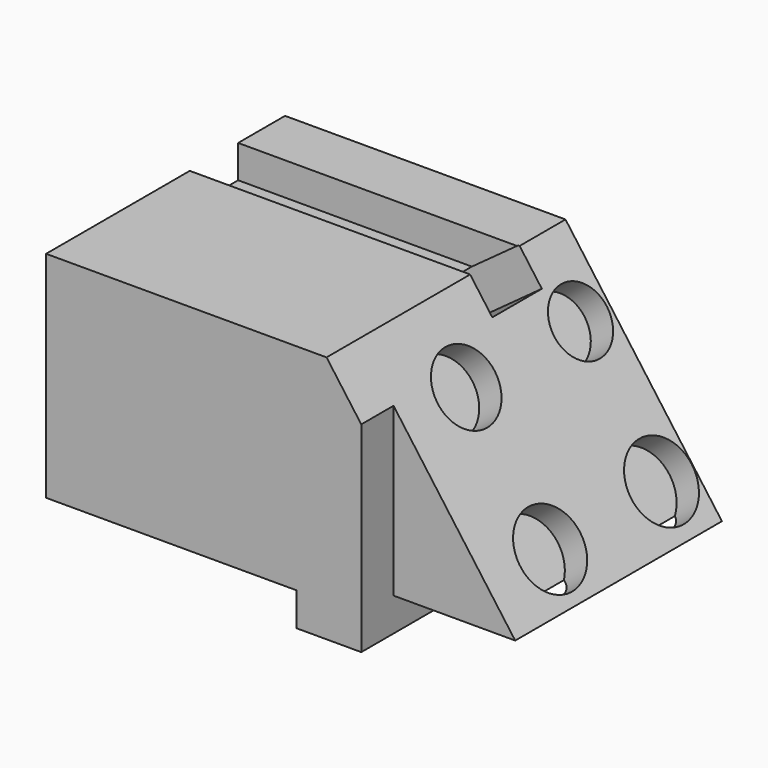
from build123d import *

# Parameters (mm, degrees)
F1_DEPTH  = 101.6
F2_W      = 95.392908901
F2_H      = 20.5622557551
F3_DEPTH  = 11.176
F5_W      = 21.0552625358
F5_H      = 13.1527595222
F6_DEPTH  = 25.4
F7_R      = 12.0900311227
F7_R_2    = 11.1649780349
F7_R_3    = 12.6885276411
F7_R_4    = 12.8258511979
F8_DEPTH  = 9.398
F10_DEPTH = 13.716


with BuildPart() as f1:
    # F0 (on Front) → F1 (new body)
    with BuildSketch(Plane.XZ):
        Polygon((32.0974774659, 39.2414145172), (-63.2954314351, 39.2414145172), (-63.2954314351, -33.8319987059), (21.8787807971, -33.8319987059), (21.8787807971, -45.1878346503), (43.9058281481, -45.1878346503), (43.9058281481, -33.8319987059), (85.2973610163, -33.8319987059), align=None)
    extrude(amount=F1_DEPTH)

    # F2 (on face) → F3 (cut)
    with BuildSketch(Plane.XY.offset(39.2414145172)):
        with Locations((-15.5989769846, -30.2323354408)):
            Rectangle(F2_W, F2_H)
    extrude(amount=-F3_DEPTH, mode=Mode.SUBTRACT)

    # F5 (on face) → F6 (cut)
    with BuildSketch(Plane(origin=(39.6504866209, 0, 28.8668775402), x_dir=(0, 1, 0), z_dir=(0.8084434725, 0, 0.5885738287))):
        with Locations((-30.0295893103, 6.5763797611)):
            Rectangle(F5_W, F5_H)
    extrude(amount=-F6_DEPTH, mode=Mode.SUBTRACT)

    # F7 (on face) → F8 (cut)
    with BuildSketch(Plane(origin=(39.6504866209, 0, 28.8668775402), x_dir=(0, 1, 0), z_dir=(0.8084434725, 0, 0.5885738287))):
        with Locations((-60.9646290541, -12.6676354557)):
            Circle(F7_R)
        with Locations((-12.3755605891, -12.6676354557)):
            Circle(F7_R_2)
        with Locations((-60.9646290541, -61.1499175429)):
            Circle(F7_R_3)
        with Locations((-13.0234146491, -60.3485517204)):
            Circle(F7_R_4)
    extrude(amount=-F8_DEPTH, mode=Mode.SUBTRACT)

    # F9 (on face) → F10 (cut)
    with BuildSketch(Plane.XZ.offset(101.6)):
        Polygon((43.9058281481, 31.8253524601), (43.9058281481, -33.8319987059), (85.2973610163, -33.8319987059), align=None)
    extrude(amount=-F10_DEPTH, mode=Mode.SUBTRACT)


solid = f1.part
